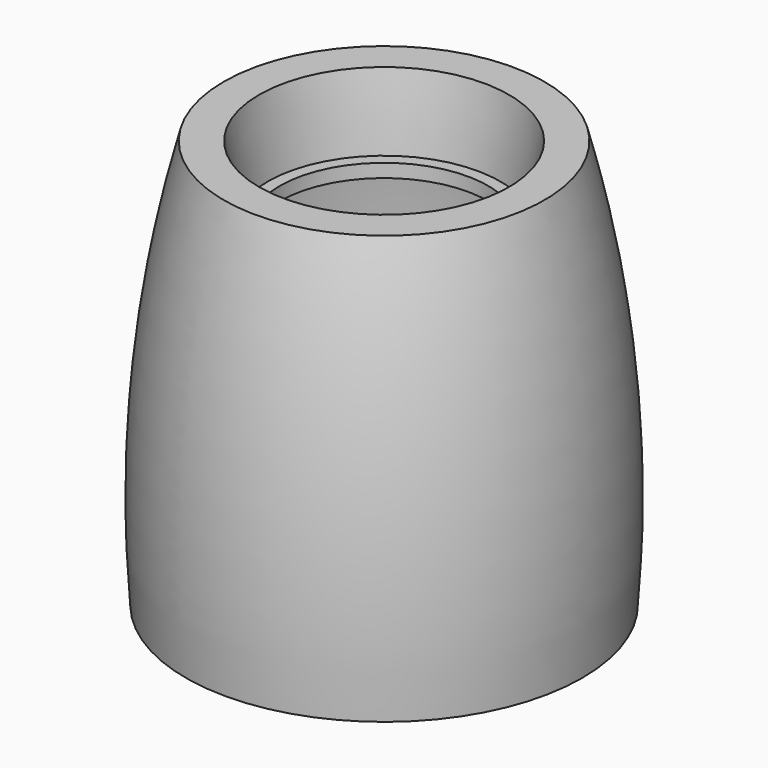
from build123d import *


with BuildPart() as f1:
    # F0 (on Front) → F1 (revolve)
    with BuildSketch(Plane.XZ):
        with BuildLine():
            Line((-6.45163, 35.470072), (-4.536788, 35.470072))
            ThreePointArc((-4.536788, 35.470072), (-3.887744, 30.282526), (-3.485, 25.070072))
            Line((-3.485, 25.070072), (0, 25.070072))
            Line((0, 25.070072), (0.000809, 26.020072))
            Line((0.000809, 26.020072), (0.001618, 26.970072))
            Line((0.001618, 26.970072), (-1.698382, 26.970072))
            ThreePointArc((-1.698382, 26.970072), (-2.183624, 32.184216), (-2.9114, 37.370072))
            Line((-2.9114, 37.370072), (-7.9114, 37.370072))
            ThreePointArc((-7.9114, 37.370072), (-13.080024, 8.751286), (-13.260552, -20.329928))
            Line((-13.260552, -20.329928), (-11.35163, -20.363812))
            ThreePointArc((-11.35163, -20.363812), (-11.261734, 7.760253), (-6.45163, 35.470072))
        make_face()
    revolve(axis=Axis((14.750803, 0, 25.389076), (0, 0, -1)))


solid = f1.part
